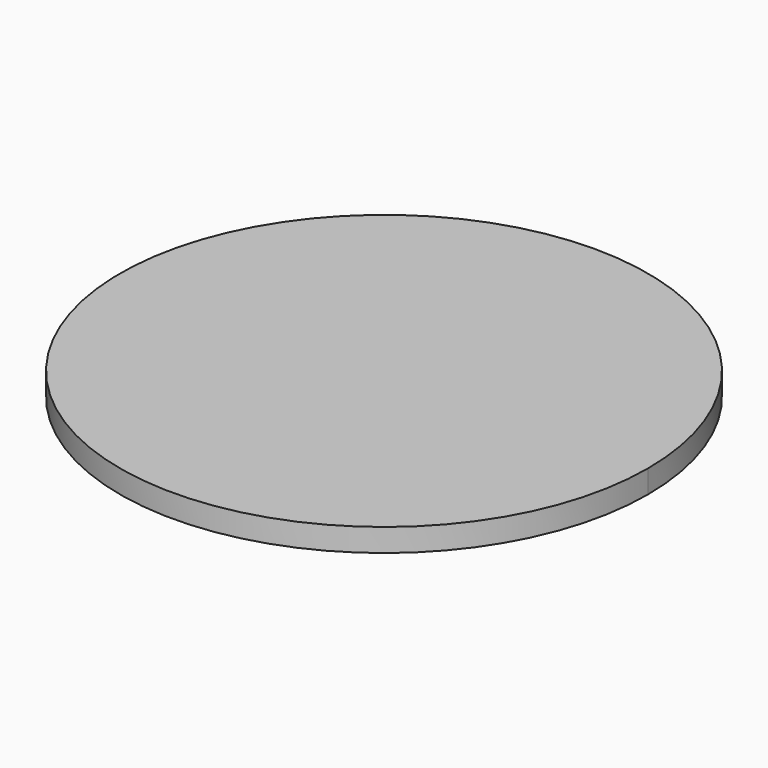
from build123d import *

# Parameters (mm, degrees)
F1_DEPTH = 10


with BuildPart() as f1:
    # F0 (on Top) → F1 (new body)
    with BuildSketch(Plane.XY):
        with BuildLine():
            ThreePointArc((115, 0), (81.31728, 81.31728), (0, 115))
            ThreePointArc((0, 115), (-81.31728, -81.31728), (115, 0))
        make_face()
    extrude(amount=F1_DEPTH)


solid = f1.part
